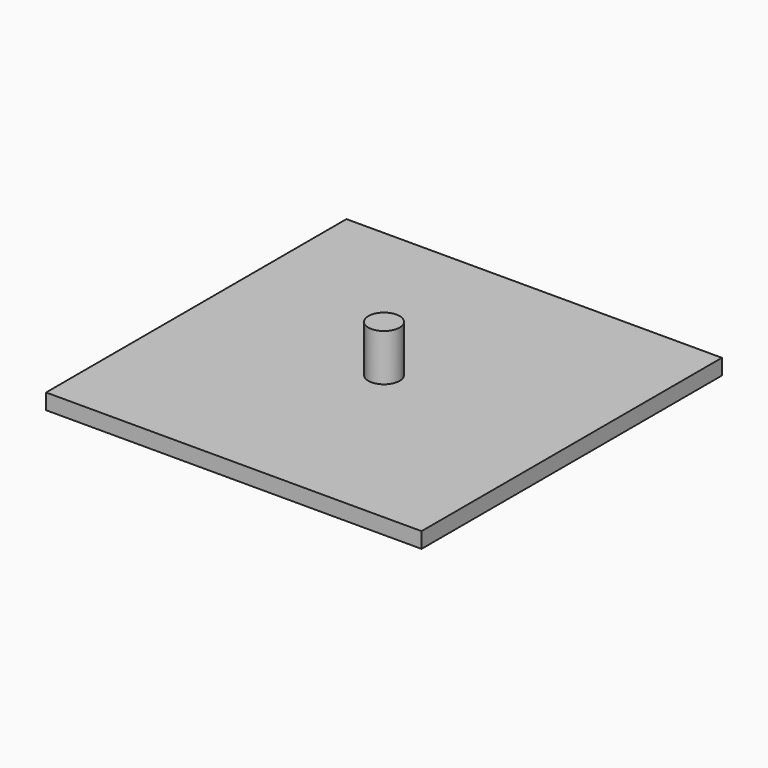
from build123d import *

# Parameters (mm, degrees)
F0_R     = 3.175
F1_DEPTH = 12.7
F2_W     = 76.2
F2_H     = 76.2
F3_DEPTH = 3.175


with BuildPart() as f1:
    # F0 (on Top) → F1 (new body)
    with BuildSketch(Plane.XY):
        Circle(F0_R)
    extrude(amount=F1_DEPTH)

    # F2 (on Top) → F3 (join)
    with BuildSketch(Plane.XY):
        Rectangle(F2_W, F2_H)
    extrude(amount=F3_DEPTH)


solid = f1.part
